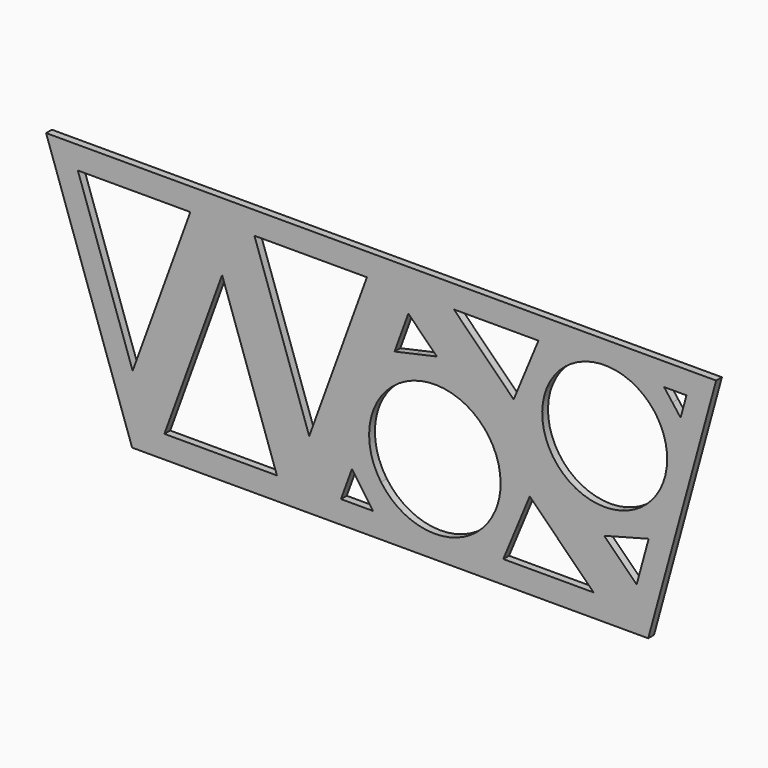
from build123d import *

# Parameters (mm, degrees)
F1_DEPTH = 16


with BuildPart() as f1:
    # F0 (on Front) → F1 (new body)
    with BuildSketch(Plane.XZ):
        Polygon((-750, 0), (0, 0), (150, 550), (-550, 550), (-940, 550), (-1330, 550), (-1140, 0), align=None)
        Polygon((-654.454421, 116.441593), (-631.18567, 83.220796), (-607.916918, 50), (-678.615, 50), align=None, mode=Mode.SUBTRACT)
        Polygon((-1068.615, 50), (-941.208402, 400.368147), (-820.172133, 50), align=None, mode=Mode.SUBTRACT)
        Polygon((-320.141914, 50), (-290.935886, 120.50959), (-261.729857, 191.019179), (-120.710678, 50), (-243.274822, 50), align=None, mode=Mode.SUBTRACT)
        with BuildLine():
            ThreePointArc((-502.742458, 336.983624), (-380.405965, 308.473017), (-326.076012, 195.21522))
            ThreePointArc((-326.076012, 195.21522), (-328.866282, 166.885136), (-337.129862, 139.643761))
            ThreePointArc((-337.129862, 139.643761), (-455.471464, 50.864276), (-590.232296, 111.905656))
            ThreePointArc((-590.232296, 111.905656), (-606.640717, 247.826786), (-502.742458, 336.983624))
        make_face(mode=Mode.SUBTRACT)
        Polygon((-97.077056, 167.787734), (-48.018298, 180.815995), (1.04046, 193.844256), (-25.568263, 96.278941), align=None, mode=Mode.SUBTRACT)
        Polygon((-1259.827867, 500), (-1011.385, 500), (-1138.791598, 149.631853), align=None, mode=Mode.SUBTRACT)
        Polygon((-621.385, 500), (-748.791598, 149.631853), (-869.827867, 500), align=None, mode=Mode.SUBTRACT)
        with BuildLine():
            ThreePointArc((13.532, 445.766309), (34.587674, 406.215203), (41.861859, 362.003014))
            ThreePointArc((41.861859, 362.003014), (13.251661, 277.873954), (-60.715725, 228.628975))
            ThreePointArc((-60.715725, 228.628975), (-199.987974, 271.130828), (-223.627718, 414.812174))
            ThreePointArc((-223.627718, 414.812174), (-113.995037, 498.839382), (13.532, 445.766309))
        make_face(mode=Mode.SUBTRACT)
        Polygon((-466.868555, 396.157876), (-513.571635, 385.796829), (-560.274716, 375.435781), (-529.840514, 459.129836), align=None, mode=Mode.SUBTRACT)
        Polygon((-242.461375, 500), (-269.821694, 433.946346), (-297.182014, 367.892692), (-429.289322, 500), align=None, mode=Mode.SUBTRACT)
        Polygon((71.50984, 452.231983), (53.267333, 476.115992), (35.024827, 500), (84.537481, 500), align=None, mode=Mode.SUBTRACT)
    extrude(amount=F1_DEPTH)


solid = f1.part
